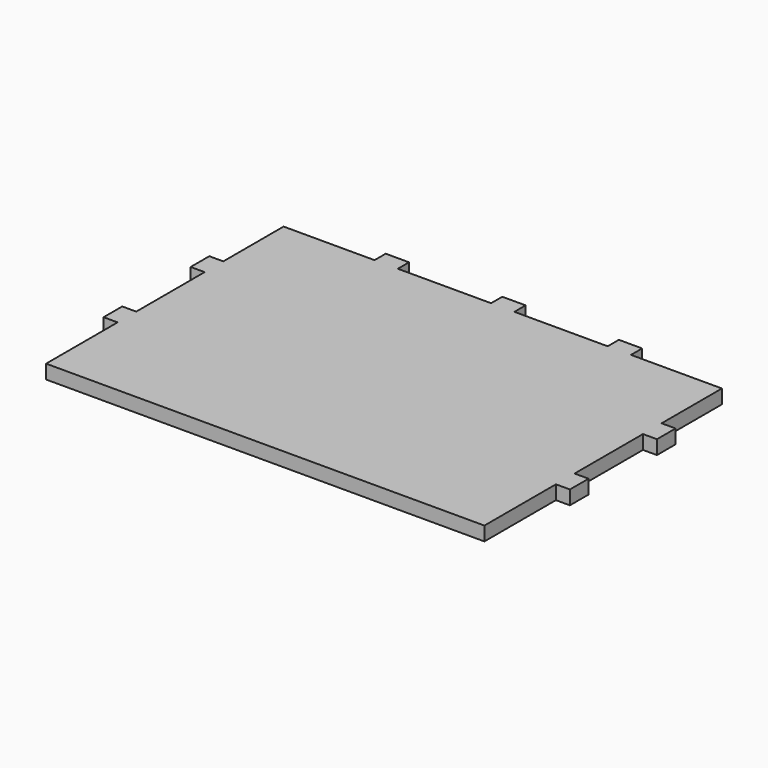
from build123d import *

# Parameters (mm, degrees)
F2_DEPTH = 18


with BuildPart() as f2:
    # F1 (on Top) → F2 (new body)
    with BuildSketch(Plane.XY):
        Polygon((-582, 255), (-582, 145), (-600, 145), (-600, 115), (-582, 115), (-582, 0), (-18, 0), (-18, 115), (0, 115), (0, 145), (-18, 145), (-18, 255), (0, 255), (0, 285), (-18, 285), (-18, 382), (-135, 382), (-135, 400), (-165, 400), (-165, 382), (-285, 382), (-285, 400), (-315, 400), (-315, 382), (-435, 382), (-435, 400), (-465, 400), (-465, 382), (-582, 382), (-582, 285), (-600, 285), (-600, 255), align=None)
    extrude(amount=F2_DEPTH)


solid = f2.part
